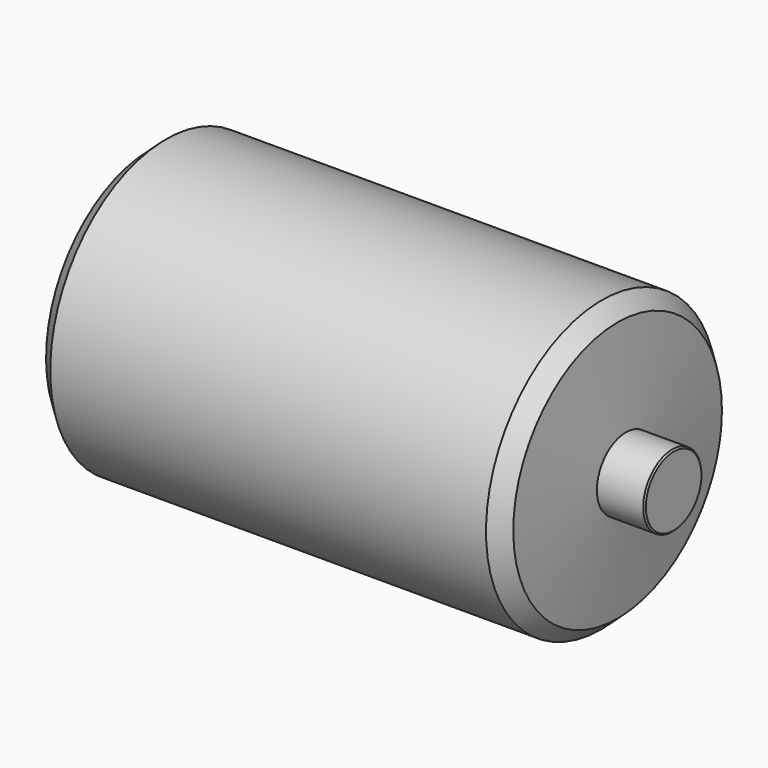
from build123d import *

# Parameters (mm, degrees)
F2_SIZE  = 5
F3_SIZE  = 5
F4_SIZE2 = 0.5
F4_SIZE  = 0.5


with BuildPart() as f1:
    # F0 (on Top) → F1 (revolve)
    with BuildSketch(Plane.XY):
        Polygon((0, 12.5), (0, 0), (200, 0), (200, 12.5), (183.5, 12.5), (180.219175, 50), (19.780825, 50), (16.5, 12.5), align=None)
    revolve(axis=Axis((100, 0, 0), (1, 0, 0)))

    # F2
    f2_edges = [f1.edges().sort_by_distance(p)[0] for p in [
        (19.780825, -50, 0),
    ]]
    chamfer(f2_edges, length=F2_SIZE)

    # F3
    f3_edges = [f1.edges().sort_by_distance(p)[0] for p in [
        (180.219175, -50, 0),
    ]]
    chamfer(f3_edges, length=F3_SIZE)

    # F4
    f4_edges = [f1.edges().sort_by_distance(p)[0] for p in [
        (0, -12.5, 0),
        (200, -12.5, 0),
    ]]
    chamfer(f4_edges, length=F4_SIZE, length2=F4_SIZE2)


solid = f1.part
